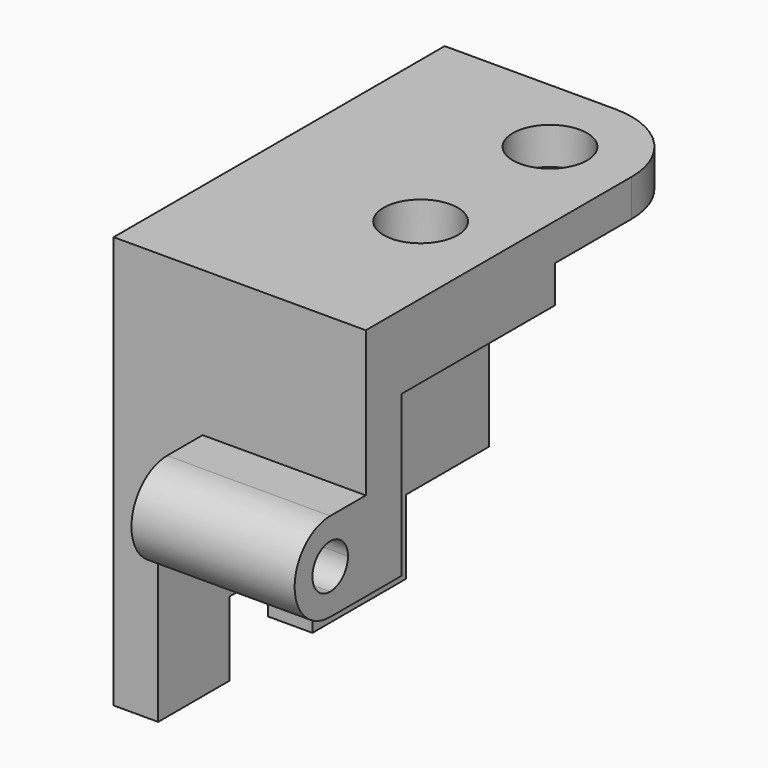
from build123d import *

# Parameters (mm, degrees)
F0_R          = 2.5
F0_W          = 3
F0_H          = 3
F0_W_2        = 14
F1_DEPTH      = 5
F2_DEPTH      = 2.5
F0_H_2        = 21.9
F3_DEPTH      = 22.8
F3_DEPTH_BACK = 5
F4_W          = 3
F4_H          = 7
F5_DEPTH      = 5
F6_DEPTH      = 10.8
F8_DEPTH      = 11


with BuildPart() as f1:
    # F0 (on Top) → F1 (new body)
    with BuildSketch(Plane.XY):
        with BuildLine():
            Line((-5.5, 4.45), (-5.5, 0))
            ThreePointArc((-5.5, 0), (-3.8890872965, -3.8890872965), (0, -5.5))
            ThreePointArc((0, -5.5), (3.8890872965, -3.8890872965), (5.5, 0))
            Line((5.5, 0), (5.5, 4.45))
            Line((5.5, 4.45), (-5.5, 4.45))
        make_face()
        Circle(F0_R, mode=Mode.SUBTRACT)
        with BuildLine():
            Line((-5.5, 5.45), (-5.5, 4.45))
            Line((-5.5, 4.45), (5.5, 4.45))
            Line((5.5, 4.45), (5.5, 10.9))
            ThreePointArc((5.5, 10.9), (3.8890872965, 14.7890872965), (0, 16.4))
            ThreePointArc((0, 16.4), (-3.8890872965, 14.7890872965), (-5.5, 10.9))
            Line((-5.5, 10.9), (-5.5, 5.45))
        make_face()
        with BuildLine():
            ThreePointArc((2.5, 10.9), (0, 8.4), (-2.5, 10.9))
            ThreePointArc((-2.5, 10.9), (0, 13.4), (2.5, 10.9))
        make_face(mode=Mode.SUBTRACT)
        with BuildLine():
            ThreePointArc((0, -5.5), (-3.8890872965, -3.8890872965), (-5.5, 0))
            Line((-5.5, 0), (-5.5, 4.45))
            Line((-5.5, 4.45), (-5.5, 5.45))
            Line((-5.5, 5.45), (-5.5, 10.9))
            Line((-5.5, 10.9), (-5.5, 16.4))
            Line((-5.5, 16.4), (-8.5, 16.4))
            Line((-8.5, 16.4), (-8.5, -5.5))
            Line((-8.5, -5.5), (0, -5.5))
        make_face()
        with BuildLine():
            Line((-5.5, 16.4), (-5.5, 10.9))
            ThreePointArc((-5.5, 10.9), (-3.8890872965, 14.7890872965), (0, 16.4))
            Line((0, 16.4), (-5.5, 16.4))
        make_face()
        with BuildLine():
            ThreePointArc((5.5, 0), (3.8890872965, -3.8890872965), (0, -5.5))
            Line((0, -5.5), (-8.5, -5.5))
            Line((-8.5, -5.5), (-8.5, -8.5))
            Line((-8.5, -8.5), (5.5, -8.5))
            Line((5.5, -8.5), (5.5, 0))
        make_face()
        with Locations((-10, -10)):
            Rectangle(F0_W, F0_H)
        with Locations((-1.5, -10)):
            Rectangle(F0_W_2, F0_H)
    extrude(amount=F1_DEPTH)

    # F0 (on Top) → F2 (cut)
    with BuildSketch(Plane.XY):
        with BuildLine():
            Line((-5.5, 5.45), (-5.5, 4.45))
            Line((-5.5, 4.45), (5.5, 4.45))
            Line((5.5, 4.45), (5.5, 10.9))
            ThreePointArc((5.5, 10.9), (3.8890872965, 14.7890872965), (0, 16.4))
            ThreePointArc((0, 16.4), (-3.8890872965, 14.7890872965), (-5.5, 10.9))
            Line((-5.5, 10.9), (-5.5, 5.45))
        make_face()
        with BuildLine():
            ThreePointArc((2.5, 10.9), (0, 8.4), (-2.5, 10.9))
            ThreePointArc((-2.5, 10.9), (0, 13.4), (2.5, 10.9))
        make_face(mode=Mode.SUBTRACT)
        with BuildLine():
            Line((-5.5, 16.4), (-5.5, 10.9))
            ThreePointArc((-5.5, 10.9), (-3.8890872965, 14.7890872965), (0, 16.4))
            Line((0, 16.4), (-5.5, 16.4))
        make_face()
    extrude(amount=F2_DEPTH, mode=Mode.SUBTRACT)

    # F0 (on Top) → F3 (join, two sides)
    with BuildSketch(Plane.XY) as f3_sk:
        with Locations((-10, -10)):
            Rectangle(F0_W, F0_H)
        with Locations((-10, 5.45)):
            Rectangle(F0_W, F0_H_2)
        with Locations((-10, -7)):
            Rectangle(F0_W, F0_H)
    extrude(amount=-F3_DEPTH)
    extrude(f3_sk.sketch, amount=F3_DEPTH_BACK)

    # F4 (on face) → F5 (cut)
    with BuildSketch(Plane(origin=(0, 0, -22.8), x_dir=(1, 0, 0), z_dir=(0, 0, -1))):
        with Locations((-10, -12.9)):
            Rectangle(F4_W, F4_H)
        with Locations((-10, 2)):
            Rectangle(F4_W, F4_H)
    extrude(amount=-F5_DEPTH, mode=Mode.SUBTRACT)

    # F0 (on Top) → F6 (join)
    with BuildSketch(Plane.XY):
        with Locations((-1.5, -10)):
            Rectangle(F0_W_2, F0_H)
    extrude(amount=-F6_DEPTH)

    # F7 (on face) → F8 (join)
    with BuildSketch(Plane.YZ.offset(5.5)):
        with BuildLine():
            ThreePointArc((-14.5, -4.8), (-17.5, -7.8), (-14.5, -10.8))
            Line((-14.5, -10.8), (-14.5, -9.3))
            ThreePointArc((-14.5, -9.3), (-16, -7.8), (-14.5, -6.3))
            Line((-14.5, -6.3), (-14.5, -4.8))
        make_face()
        with BuildLine():
            Line((-14.5, -9.3), (-14.5, -10.8))
            ThreePointArc((-14.5, -10.8), (-12.3786796564, -9.9213203436), (-11.5, -7.8))
            ThreePointArc((-11.5, -7.8), (-12.3786796564, -5.6786796564), (-14.5, -4.8))
            Line((-14.5, -4.8), (-14.5, -6.3))
            ThreePointArc((-14.5, -6.3), (-13.4393398282, -6.7393398282), (-13, -7.8))
            ThreePointArc((-13, -7.8), (-13.4393398282, -8.8606601718), (-14.5, -9.3))
        make_face()
        with BuildLine():
            ThreePointArc((-14.5, -4.8), (-12.3786796564, -5.6786796564), (-11.5, -7.8))
            Line((-11.5, -7.8), (-11.5, -4.8))
            Line((-11.5, -4.8), (-14.5, -4.8))
        make_face()
        with BuildLine():
            Line((-14.5, -10.8), (-11.5, -10.8))
            Line((-11.5, -10.8), (-11.5, -7.8))
            ThreePointArc((-11.5, -7.8), (-12.3786796564, -9.9213203436), (-14.5, -10.8))
        make_face()
    extrude(amount=-F8_DEPTH)


solid = f1.part
